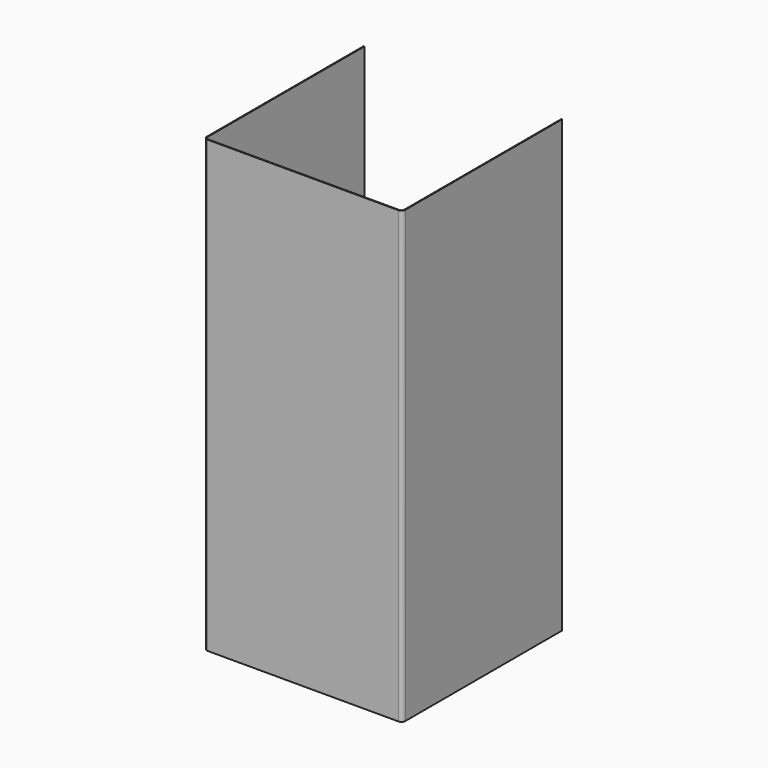
from build123d import *

# Parameters (mm, degrees)
F0_W     = 60.5891123414
F0_H     = 39.380852133
F1_DEPTH = 590
F2_DEPTH = 260
F3_DEPTH = 262
F4_R     = 5
F5_T     = -1


with BuildPart() as f1:
    # F0 (on Top) → F1 (new body)
    with BuildSketch(Plane.XY):
        with Locations((30.2945561707, -19.6904260665)):
            Rectangle(F0_W, F0_H)
    extrude(amount=F1_DEPTH)

    # F2 (add): a face of the model
    f2_faces = [f1.faces().sort_by_distance(p)[0] for p in [
        (0, -19.6904260665, 295),
    ]]
    extrude(f2_faces, amount=-F2_DEPTH)

    # F3 (add): a face of the model
    f3_faces = [f1.faces().sort_by_distance(p)[0] for p in [
        (130, 0, 295),
    ]]
    extrude(f3_faces, amount=-F3_DEPTH)

    # F4
    f4_edges = [f1.edges().sort_by_distance(p)[0] for p in [
        (0, -262, 295),
        (260, -262, 295),
    ]]
    fillet(f4_edges, radius=F4_R)

    # F5
    f5_openings = [f1.faces().sort_by_distance(p)[0] for p in [
        (130, -130.979538, 590),
        (130, 0, 295),
        (130, -130.979538, 0),
    ]]
    offset(amount=F5_T, openings=f5_openings)


solid = f1.part
